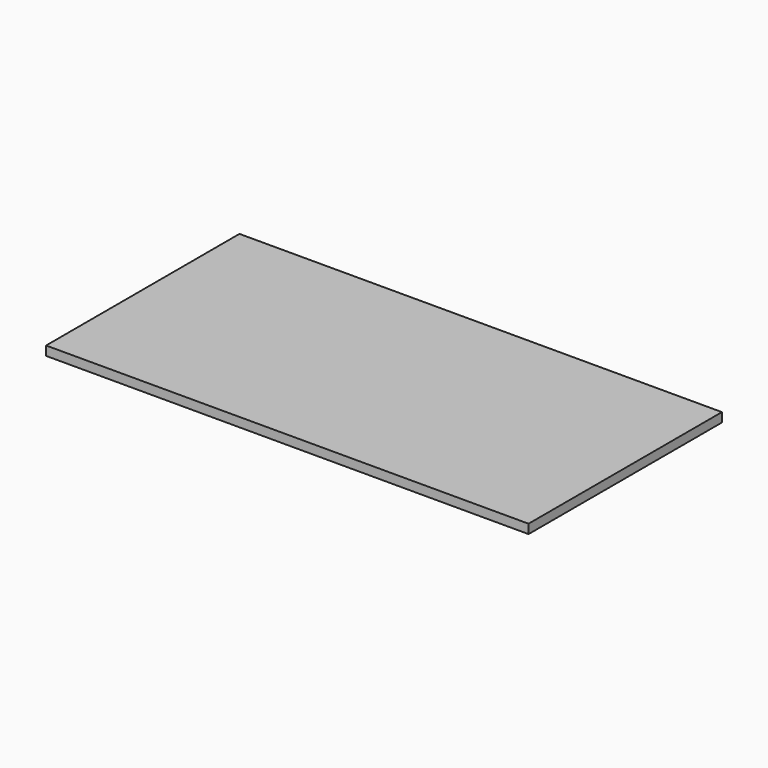
from build123d import *

# Parameters (mm, degrees)
BOX_W     = 1000
BOX_H     = 501
BOX_DEPTH = 19


with BuildPart() as part:
    # Box → Box (new body)
    with BuildSketch(Plane.XY):
        with Locations((500, 250.5)):
            Rectangle(BOX_W, BOX_H)
    extrude(amount=BOX_DEPTH)


solid = part.part
